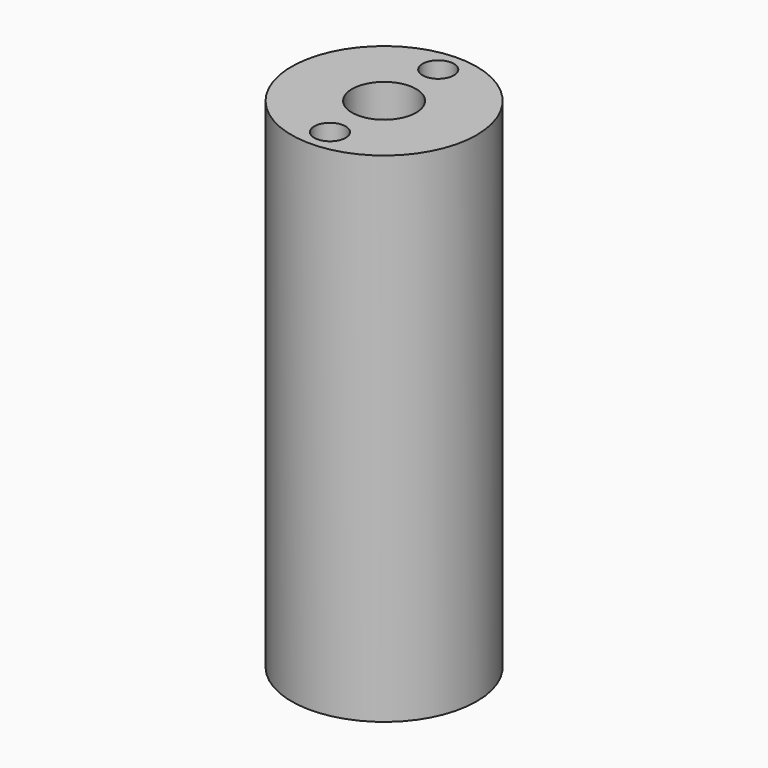
from build123d import *

# Parameters (mm, degrees)
F0_R     = 6.5
F0_R_2   = 2.25
F1_DEPTH = 35
F3_D     = 2.2
F7_DEPTH = 10


with BuildPart() as f1:
    # F0 (on Top) → F1 (new body)
    with BuildSketch(Plane.XY):
        Circle(F0_R)
        Circle(F0_R_2, mode=Mode.SUBTRACT)
    extrude(amount=F1_DEPTH)

    # F3 (through all)
    with Locations(Plane(origin=(0, 0, 0), x_dir=(1, 0, 0), z_dir=(0, 0, -1))):
        with Locations((0, -4.75), (0, 4.75)):
            Hole(F3_D / 2)

    # F6 (on offset) → F7 (cut)
    with BuildSketch(Plane(origin=(0, 0, 3), x_dir=(1, 0, 0), z_dir=(0, 0, -1))):
        with BuildLine():
            Line((2, -6.75), (2, -4.75))
            ThreePointArc((2, -4.75), (0, -2.75), (-2, -4.75))
            Line((-2, -4.75), (-2, -6.75))
            Line((-2, -6.75), (2, -6.75))
        make_face()
    extrude(amount=-F7_DEPTH, mode=Mode.SUBTRACT)


solid = f1.part
